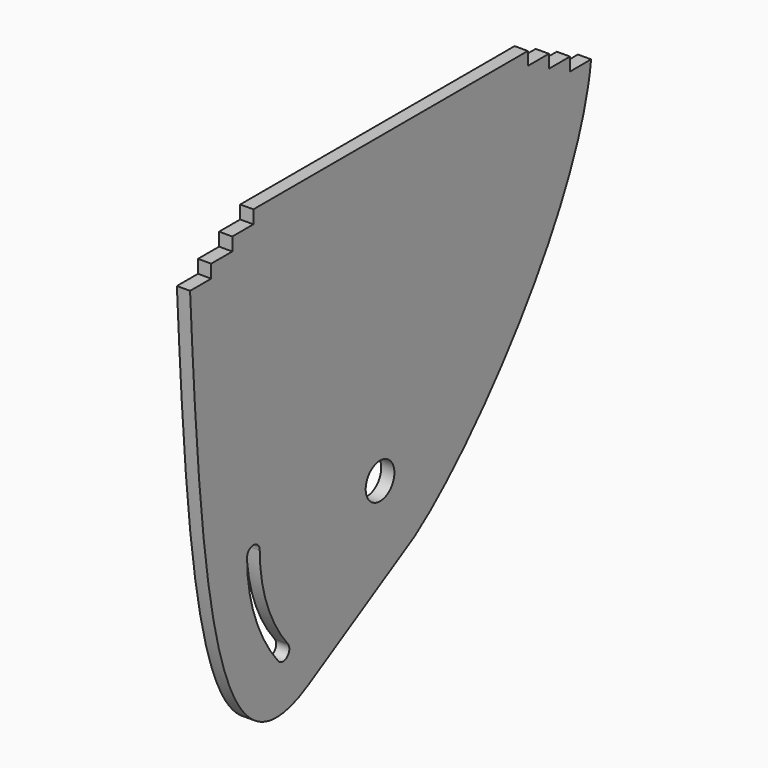
from build123d import *

# Parameters (mm, degrees)
F0_R     = 6.8
F3_DEPTH = 5
F4_DEPTH = 5.001
F5_DEPTH = 5


with BuildPart() as f3:
    # F0 (on Right) → F3 (new body)
    with BuildSketch(Plane.YZ):
        with BuildLine():
            ThreePointArc((15, -25.980762), (15.974572, -25.393169), (16.926158, -24.769037))
            add(Edge.make_bspline(
                [(16.926158, -24.769037), (45.375206, -5.328108), (94.536945, 53.480837), (100, 100)],
                knots=[0, 0, 0, 0, 149.895216, 149.895216, 149.895216, 149.895216], degree=3))
            Line((100, 100), (-90, 100))
            add(Edge.make_bspline(
                [(-33.810598, -54.161574), (-78.207154, -79.793938), (-84.736958, 0), (-90, 100)],
                knots=[0, 0, 0, 0, 164.082418, 164.082418, 164.082418, 164.082418], degree=3))
            Line((-33.810598, -54.161574), (15, -25.980762))
        make_face()
        Circle(F0_R, mode=Mode.SUBTRACT)
    extrude(amount=F3_DEPTH)

    # F1 (on Right) → F4 (cut, through all)
    with BuildSketch(Plane.YZ):
        with BuildLine():
            ThreePointArc((-57, 0), (-60, 3), (-63, 0))
            ThreePointArc((-63, 0), (-59.200635, -21.547269), (-48.2608, -40.495619))
            ThreePointArc((-48.2608, -40.495619), (-44.034304, -40.86539), (-43.664533, -36.638894))
            ThreePointArc((-43.664533, -36.638894), (-53.562479, -19.495148), (-57, 0))
        make_face()
    extrude(amount=F4_DEPTH, mode=Mode.SUBTRACT)

    # F2 (on Right) → F5 (join)
    with BuildSketch(Plane.YZ):
        Polygon((-80, 105), (-80, 100), (90, 100), (90, 105), (80, 105), (80, 110), (70, 110), (70, 115), (60, 115), (-50, 115), (-60, 115), (-60, 110), (-70, 110), (-70, 105), align=None)
    extrude(amount=F5_DEPTH)


solid = f3.part
